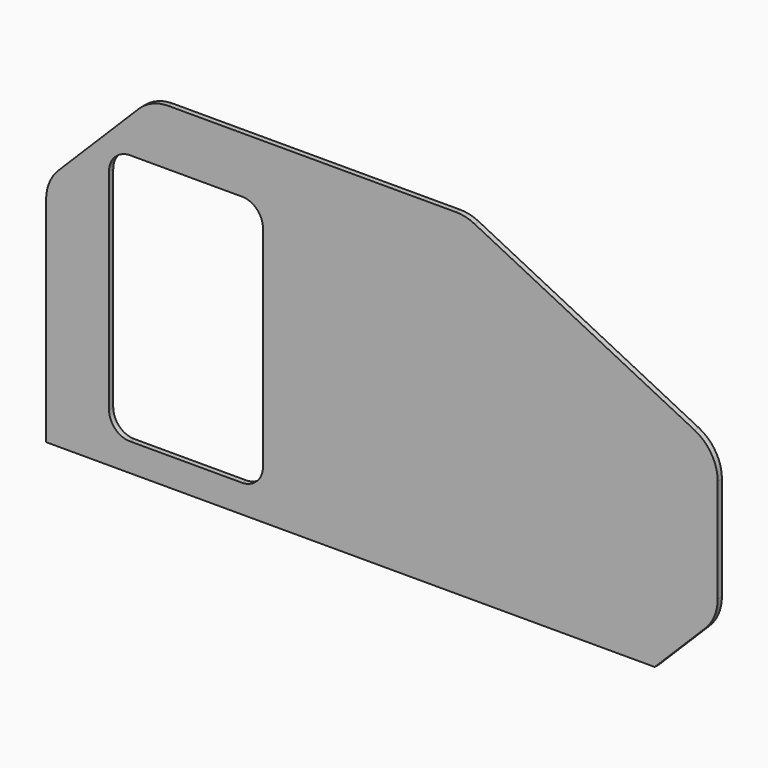
from build123d import *

# Parameters (mm, degrees)
F1_DEPTH = 19.05


with BuildPart() as f1:
    # F0 (on Front) → F1 (new body)
    with BuildSketch(Plane.XZ):
        with BuildLine():
            ThreePointArc((336.978592, 593.510704), (303.837585, 605.523146), (268.82324, 609.6))
            Line((268.82324, 609.6), (-775.073853, 609.6))
            ThreePointArc((-775.073853, 609.6), (-833.394808, 597.999241), (-882.836927, 564.963073))
            Line((-882.836927, 564.963073), (-1174.563073, 273.236927))
            ThreePointArc((-1174.563073, 273.236927), (-1207.599241, 223.794808), (-1219.2, 165.473853))
            Line((-1219.2, 165.473853), (-1219.2, -609.6))
            Line((-1219.2, -609.6), (990.6, -609.6))
            Line((990.6, -609.6), (1174.563073, -425.636927))
            ThreePointArc((1174.563073, -425.636927), (1207.599241, -376.194808), (1219.2, -317.873853))
            Line((1219.2, -317.873853), (1219.2, 58.21162))
            ThreePointArc((1219.2, 58.21162), (1196.439183, 138.333042), (1134.955352, 194.522324))
            Line((1134.955352, 194.522324), (336.978592, 593.510704))
        make_face()
        with BuildLine():
            ThreePointArc((-990.6, 330.2), (-968.281537, 384.081537), (-914.4, 406.4))
            Line((-914.4, 406.4), (-508, 406.4))
            ThreePointArc((-508, 406.4), (-454.118463, 384.081537), (-431.8, 330.2))
            Line((-431.8, 330.2), (-431.8, -431.8))
            ThreePointArc((-431.8, -431.8), (-454.118463, -485.681537), (-508, -508))
            Line((-508, -508), (-914.4, -508))
            ThreePointArc((-914.4, -508), (-968.281537, -485.681537), (-990.6, -431.8))
            Line((-990.6, -431.8), (-990.6, 330.2))
        make_face(mode=Mode.SUBTRACT)
    extrude(amount=F1_DEPTH)


solid = f1.part
